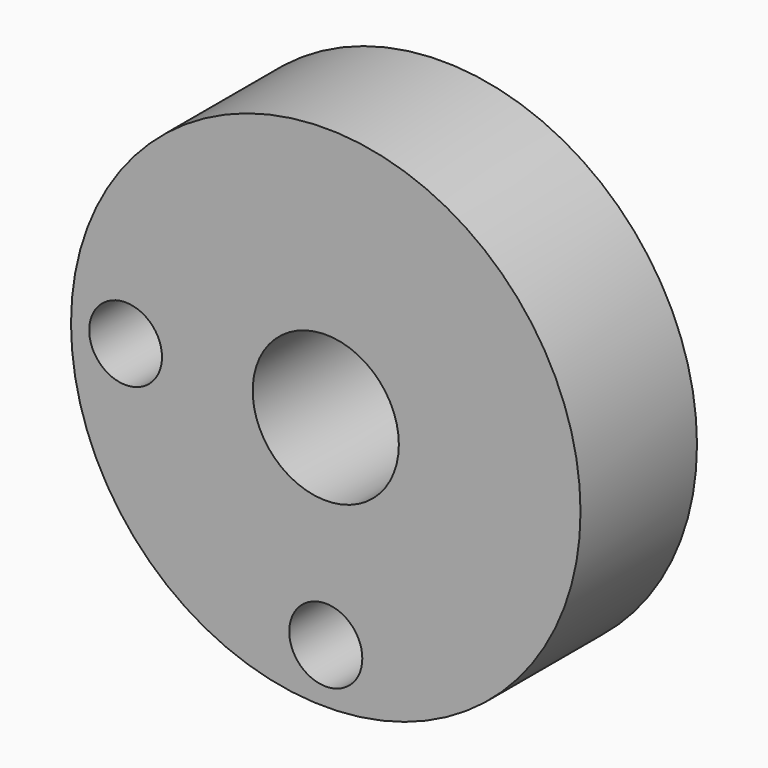
from build123d import *

# Parameters (mm, degrees)
F0_R     = 22.225
F0_R_2   = 3.1877
F0_R_3   = 3.175
F0_R_4   = 6.3754
F1_DEPTH = 12.7


with BuildPart() as f1:
    # F0 (on Front) → F1 (new body)
    with BuildSketch(Plane.XZ):
        Circle(F0_R)
        with Locations((0, -17.4625)):
            Circle(F0_R_2, mode=Mode.SUBTRACT)
        with Locations((-17.4625, 0)):
            Circle(F0_R_3, mode=Mode.SUBTRACT)
        Circle(F0_R_4, mode=Mode.SUBTRACT)
    extrude(amount=F1_DEPTH)


solid = f1.part
